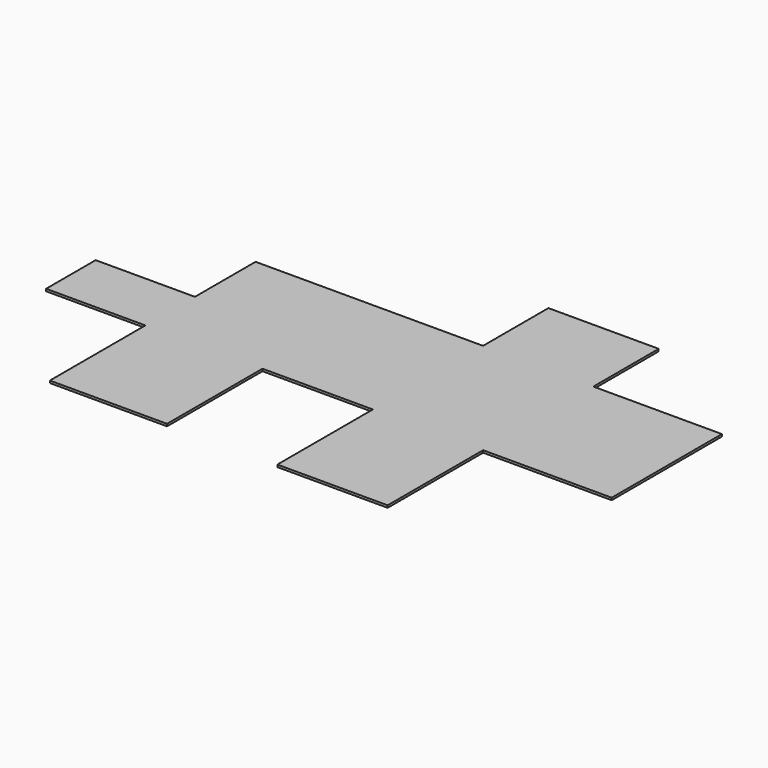
from build123d import *

# Parameters (mm, degrees)
F1_DEPTH = 25


with BuildPart() as f1:
    # F0 (on Top) → F1 (new body)
    with BuildSketch(Plane.XY):
        Polygon((0, -1524), (0, 0), (-1422, 0), (-1422, 903.927326), (-2642, 903.927326), (-2642, 0), (-4061.803818, 0), (-5157.653332, 0), (-5157.653332, -838.575959), (-6255.590439, -838.575959), (-6255.590439, -1524), (-5157.653332, -1524), (-5157.653332, -2844), (-3862, -2844), (-3862, -1524), (-2642, -1524), (-2642, -2844), (-1422, -2844), (-1422, -1524), align=None)
    extrude(amount=F1_DEPTH)


solid = f1.part
